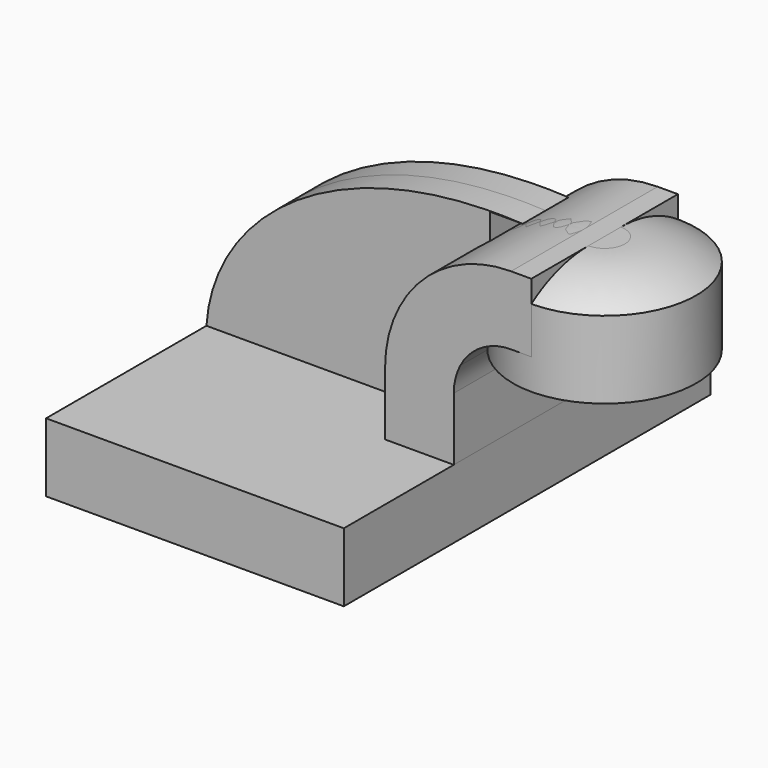
from build123d import *

# Parameters (mm, degrees)
F1_DEPTH = 63.5
F2_DEPTH = 7.9375
F4_DEPTH = 25.4


with BuildPart() as f1:
    # F0 (on Front) → F1 (new body, symmetric)
    with BuildSketch(Plane.XZ):
        Polygon((22.225, 9.525), (-41.275, 9.525), (-41.275, -9.525), (41.275, -9.525), (41.275, 9.525), align=None)
    extrude(amount=F1_DEPTH, both=True)

    # F0 (on Front) → F2 (join, symmetric)
    with BuildSketch(Plane.XZ):
        with BuildLine():
            Line((37.3688169479, 62.9158), (46.4052697443, 62.9158))
            add(Edge.make_bspline(
                [(-41.275, 9.525), (-39.3016288695, 39.409199738), (-4.8606131009, 65.7163788111), (46.4052697443, 62.9158)],
                knots=[0, 0, 0, 0, 104.369664729, 104.369664729, 104.369664729, 104.369664729], degree=3))
            Line((-41.275, 9.525), (22.225, 9.525))
            Line((22.225, 9.525), (22.225, 18.3278894425))
            Line((22.225, 18.3278894425), (22.225, 27.0002))
            ThreePointArc((22.225, 27.0002), (26.2419634796, 43.2620849908), (37.3688169479, 55.7831884144))
            Line((37.3688169479, 55.7831884144), (37.3688169479, 62.9158))
        make_face()
    extrude(amount=F2_DEPTH, both=True)


with BuildPart() as f3:
    # F0 (on Front) → F3 (revolve)
    with BuildSketch(Plane.XZ):
        with BuildLine():
            Line((62.7688169479, 42.8752), (62.7688169479, 61.9252))
            Line((62.7688169479, 61.9252), (57.15, 61.9252))
            ThreePointArc((57.15, 61.9252), (46.7936069351, 60.3543713686), (37.3688169479, 55.7831884144))
            Line((37.3688169479, 55.7831884144), (37.3688169479, 34.3408))
            Line((37.3688169479, 34.3408), (43.0740909125, 34.3408))
            ThreePointArc((43.0740909125, 34.3408), (48.919459313, 40.5749495373), (57.15, 42.8752))
            Line((57.15, 42.8752), (62.7688169479, 42.8752))
        make_face()
    revolve(axis=Axis((62.7688169479, 0, 48.6283), (0, 0, 1)))


with BuildPart() as f4:
    # F0 (on Front) → F4 (new body, symmetric)
    with BuildSketch(Plane.XZ):
        with BuildLine():
            Line((62.7688169479, 42.8752), (62.7688169479, 61.9252))
            Line((62.7688169479, 61.9252), (57.15, 61.9252))
            ThreePointArc((57.15, 61.9252), (46.7936069351, 60.3543713686), (37.3688169479, 55.7831884144))
            Line((37.3688169479, 55.7831884144), (37.3688169479, 34.3408))
            Line((37.3688169479, 34.3408), (43.0740909125, 34.3408))
            ThreePointArc((43.0740909125, 34.3408), (48.919459313, 40.5749495373), (57.15, 42.8752))
            Line((57.15, 42.8752), (62.7688169479, 42.8752))
        make_face()
        with BuildLine():
            Line((37.3688169479, 34.3408), (37.3688169479, 55.7831884144))
            ThreePointArc((37.3688169479, 55.7831884144), (26.2419634796, 43.2620849908), (22.225, 27.0002))
            Line((22.225, 27.0002), (22.225, 18.3278894425))
            Line((22.225, 18.3278894425), (22.225, 9.525))
            Line((22.225, 9.525), (41.275, 9.525))
            Line((41.275, 9.525), (41.275, 27.0002))
            ThreePointArc((41.275, 27.0002), (41.7313314167, 30.7791263181), (43.0740909125, 34.3408))
            Line((43.0740909125, 34.3408), (37.3688169479, 34.3408))
        make_face()
    extrude(amount=F4_DEPTH, both=True)


solid = Compound([f1.part, f3.part, f4.part])
